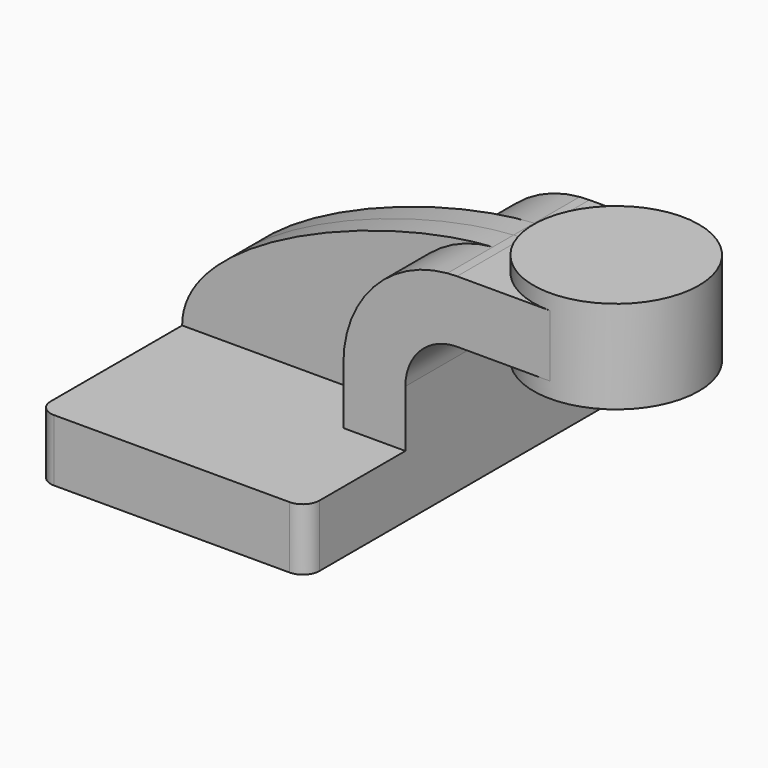
from build123d import *

# Parameters (mm, degrees)
F1_DEPTH = 63.5
F2_DEPTH = 25.4
F0_W     = 25.4
F0_H     = 19.05
F3_DEPTH = 25.4
F4_DEPTH = 7.9375
F6_R     = 5.08


with BuildPart() as f1:
    # F0 (on Front) → F1 (new body, symmetric)
    with BuildSketch(Plane.XZ):
        Polygon((22.225, 9.525), (-41.275, 9.525), (-41.275, -9.525), (41.275, -9.525), (41.275, 9.525), align=None)
    extrude(amount=F1_DEPTH, both=True)

    # F0 (on Front) → F2 (join, symmetric)
    with BuildSketch(Plane.XZ):
        with BuildLine():
            Line((22.225, 27.0002), (22.225, 9.525))
            Line((22.225, 9.525), (41.275, 9.525))
            Line((41.275, 9.525), (41.275, 27.0002))
            ThreePointArc((41.275, 27.0002), (45.9246798487, 38.2255201513), (57.15, 42.8752))
            Line((57.15, 42.8752), (60.325, 42.8752))
            Line((60.325, 42.8752), (60.325, 61.9252))
            Line((60.325, 61.9252), (57.15, 61.9252))
            add(Edge.make_bspline(
                [(54.1922002544, 61.799726515), (55.2011160531, 61.8602288921), (56.1877673856, 61.9022138929), (57.15, 61.9252)],
                knots=[108.3505777535, 108.3505777535, 108.3505777535, 108.3505777535, 111.5045361635, 111.5045361635, 111.5045361635, 111.5045361635], degree=3))
            ThreePointArc((54.1922002544, 61.799726515), (31.4298057831, 50.627032933), (22.225, 27.0002))
        make_face()
    extrude(amount=F2_DEPTH, both=True)

    # F0 (on Front) → F3 (join, symmetric)
    with BuildSketch(Plane.XZ):
        with Locations((73.025, 52.4002)):
            Rectangle(F0_W, F0_H)
    extrude(amount=F3_DEPTH, both=True)

    # F0 (on Front) → F4 (join, symmetric)
    with BuildSketch(Plane.XZ):
        with BuildLine():
            add(Edge.make_bspline(
                [(-41.275, 9.525), (-41.4042765408, 35.7887962945), (19.5320698785, 59.7212376229), (54.1922002544, 61.799726515)],
                knots=[0, 0, 0, 0, 108.3505777535, 108.3505777535, 108.3505777535, 108.3505777535], degree=3))
            Line((-41.275, 9.525), (22.225, 9.525))
            Line((22.225, 9.525), (22.225, 27.0002))
            ThreePointArc((22.225, 27.0002), (31.4298057831, 50.627032933), (54.1922002544, 61.799726515))
        make_face()
    extrude(amount=F4_DEPTH, both=True)

    # F0 (on Front) → F5 (revolve)
    with BuildSketch(Plane.XZ):
        Polygon((85.725, 66.675), (85.725, 61.9252), (85.725, 42.8752), (85.725, 38.1), (111.125, 38.1), (111.125, 66.675), align=None)
    revolve(axis=Axis((85.725, 0, 52.3875), (0, 0, 1)))

    # F6
    f6_edges = [f1.edges().sort_by_distance(p)[0] for p in [
        (-41.275, -63.5, 0),
        (-41.275, 63.5, 0),
        (41.275, 63.5, 0),
        (41.275, -63.5, 0),
    ]]
    fillet(f6_edges, radius=F6_R)


solid = f1.part
